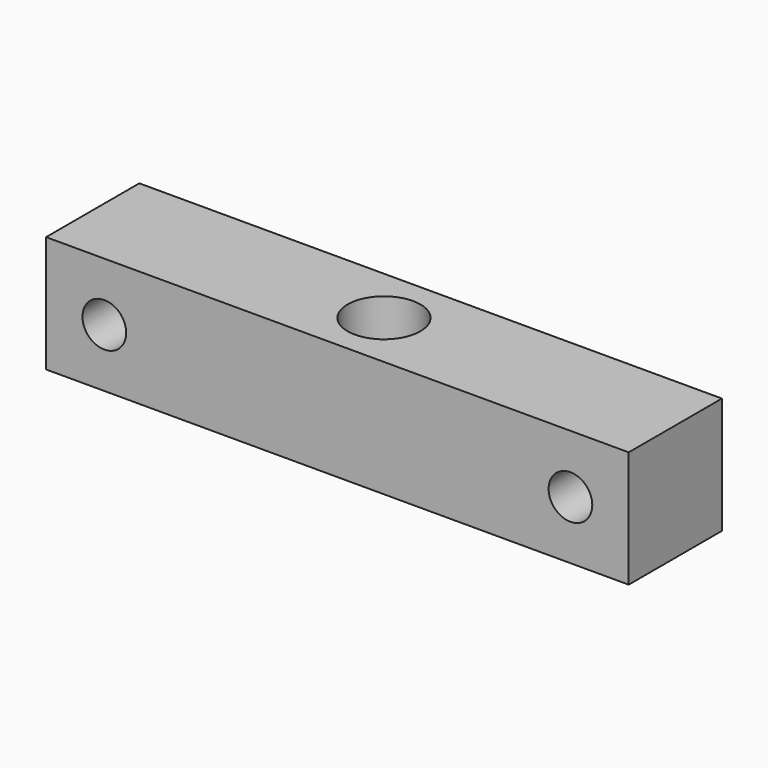
from build123d import *

# Parameters (mm, degrees)
BOX_W           = 40
BOX_H           = 8
BOX_DEPTH       = 8
SKETCH_R        = 2.5
POCKET_DEPTH    = 8
SKETCH001_R     = 1.5
POCKET001_DEPTH = 8


with BuildPart() as part:
    # Box → Box (new body)
    with BuildSketch(Plane(origin=(-20, -4, -4), x_dir=(1, 0, 0), z_dir=(0, 0, 1))):
        with Locations((20, 4)):
            Rectangle(BOX_W, BOX_H)
    extrude(amount=BOX_DEPTH)

    # Sketch → Pocket (cut)
    with BuildSketch(Plane(origin=(-20, -4, 4), x_dir=(1, 0, 0), z_dir=(0, 0, 1))):
        with Locations((20, 4)):
            Circle(SKETCH_R)
    extrude(amount=-POCKET_DEPTH, mode=Mode.SUBTRACT)

    # Sketch001 → Pocket001 (cut)
    with BuildSketch(Plane(origin=(-20, -4, -4), x_dir=(1, 0, 0), z_dir=(0, -1, 0))):
        with Locations((4, 4)):
            Circle(SKETCH001_R)
        with Locations((36, 4)):
            Circle(SKETCH001_R)
    extrude(amount=-POCKET001_DEPTH, mode=Mode.SUBTRACT)


solid = part.part
